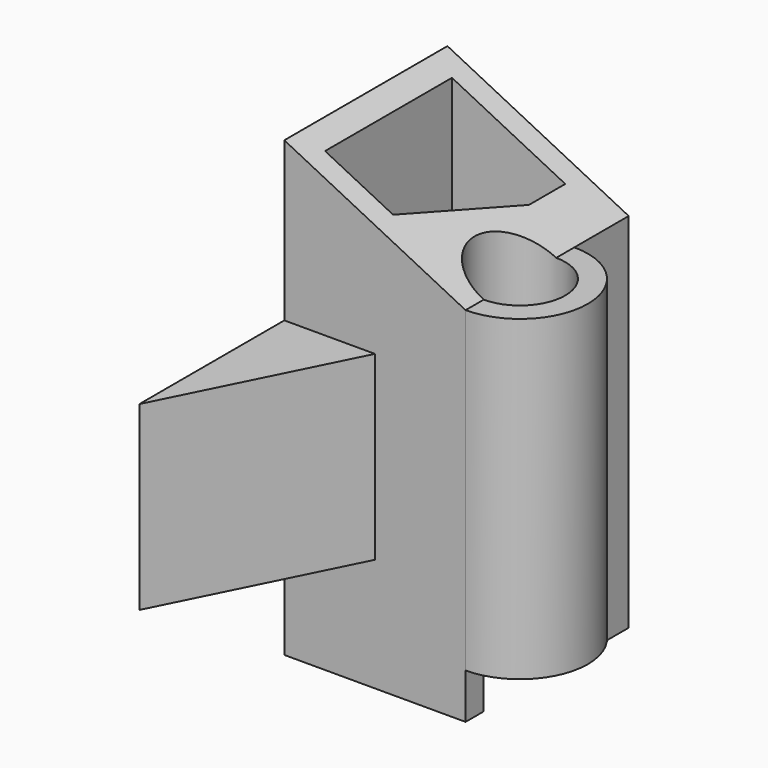
from build123d import *

# Parameters (mm, degrees)
F0_W      = 40
F0_H      = 100
F1_DEPTH  = 45
F2_R      = 15
F3_DEPTH  = 90
F5_DEPTH  = 45.001
F7_DEPTH  = 100.001
F9_DEPTH  = 25
F10_R     = 10
F11_DEPTH = 100.001
F14_DEPTH = 40


with BuildPart() as f1:
    # F0 (on Front) → F1 (new body)
    with BuildSketch(Plane.XZ):
        with Locations((20, 50)):
            Rectangle(F0_W, F0_H)
    extrude(amount=-F1_DEPTH)

    # F2 (on face) → F3 (join)
    with BuildSketch(Plane.XY.offset(100)):
        with Locations((40, 15)):
            Circle(F2_R)
    extrude(amount=-F3_DEPTH)

    # F4 (on face) → F5 (cut, through all)
    with BuildSketch(Plane.XZ):
        Polygon((62.4297, 100), (0, 100), (40, 80), (62.4297, 80), align=None)
    extrude(amount=-F5_DEPTH, mode=Mode.SUBTRACT)

    # F6 (on Top) → F7 (cut, through all)
    with BuildSketch(Plane.XY):
        Polygon((30, 40), (5, 40), (5, 5), (20, 5), (30, 30), align=None)
    extrude(amount=F7_DEPTH, mode=Mode.SUBTRACT)

    # F8 (on face) → F9 (join)
    with BuildSketch(Plane(origin=(0, 0, 0), x_dir=(1, 0, 0), z_dir=(0, 0, -1))):
        Polygon((5, -5), (5, -40), (30, -40), (30, -30), (20, -5), align=None)
    extrude(amount=-F9_DEPTH)

    # F10 (on Top) → F11 (cut, through all)
    with BuildSketch(Plane.XY):
        with Locations((40, 15)):
            Circle(F10_R)
    extrude(amount=F11_DEPTH, mode=Mode.SUBTRACT)

    # F13 (on offset) → F14 (join)
    with BuildSketch(Plane.XY.offset(25)):
        Polygon((20, 0), (0, 0), (0, -40), align=None)
    extrude(amount=F14_DEPTH)


solid = f1.part
